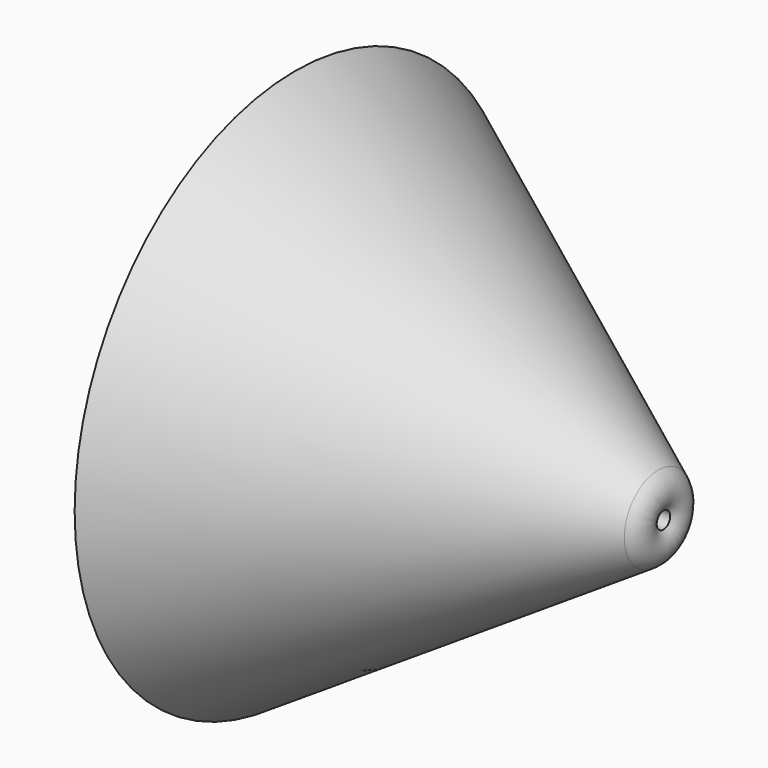
from build123d import *

# Parameters (mm, degrees)
F3_D     = 1.1
F5_DEPTH = 11


with BuildPart() as f1:
    # F0 (on Front) → F1 (revolve)
    with BuildSketch(Plane.XZ):
        with BuildLine():
            Line((0, 18), (0, 0))
            Line((0, 0), (22.892781, 0))
            ThreePointArc((22.892781, 0), (24.331991, 1.077301), (23.703917, 2.761768))
            Line((23.703917, 2.761768), (0, 18))
        make_face()
    revolve(axis=Axis((11.44639, 0, 0), (1, 0, 0)))

    # F3 (through all)
    with Locations(Plane(origin=(0, 0, 0), x_dir=(0, 1, 0), z_dir=(-1, 0, 0))):
        with Locations((0, 0)):
            Hole(F3_D / 2)

    # F4 (on Right) → F5 (cut)
    with BuildSketch(Plane.YZ):
        Polygon((-1.6, -8.85), (-1.6, -14.6), (1.6, -14.6), (1.6, -8.85), (1.6, -4.6), (-1.6, -4.6), align=None)
    extrude(amount=F5_DEPTH, mode=Mode.SUBTRACT)


solid = f1.part
